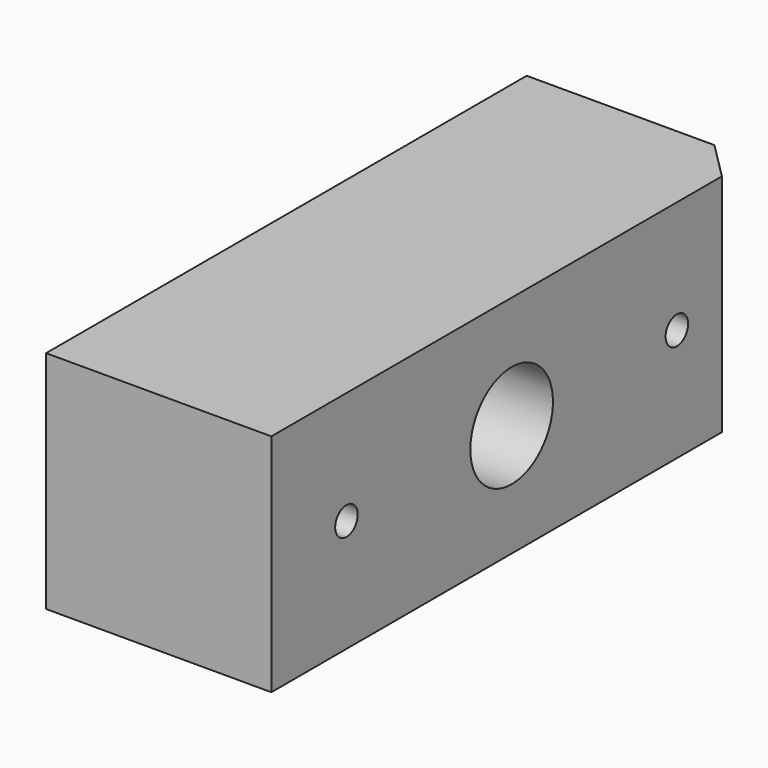
from build123d import *

# Parameters (mm, degrees)
F0_W     = 38.1
F0_H     = 38.1
F1_DEPTH = 101.6
F2_SIZE  = 6.35
F4_D     = 17.4625
F5_D     = 4.7625


with BuildPart() as f1:
    # F0 (on Front) → F1 (new body)
    with BuildSketch(Plane.XZ):
        Rectangle(F0_W, F0_H)
    extrude(amount=-F1_DEPTH)

    # F2
    f2_edges = [f1.edges().sort_by_distance(p)[0] for p in [
        (19.05, 101.6, 0),
    ]]
    chamfer(f2_edges, length=F2_SIZE)

    # F4 (through all)
    with Locations(Plane.YZ.offset(19.05)):
        with Locations((50.8, 0)):
            Hole(F4_D / 2)

    # F5 (through all)
    with Locations(Plane.YZ.offset(19.05)):
        with Locations((15.875, 0), (85.725, 0)):
            Hole(F5_D / 2)


solid = f1.part
